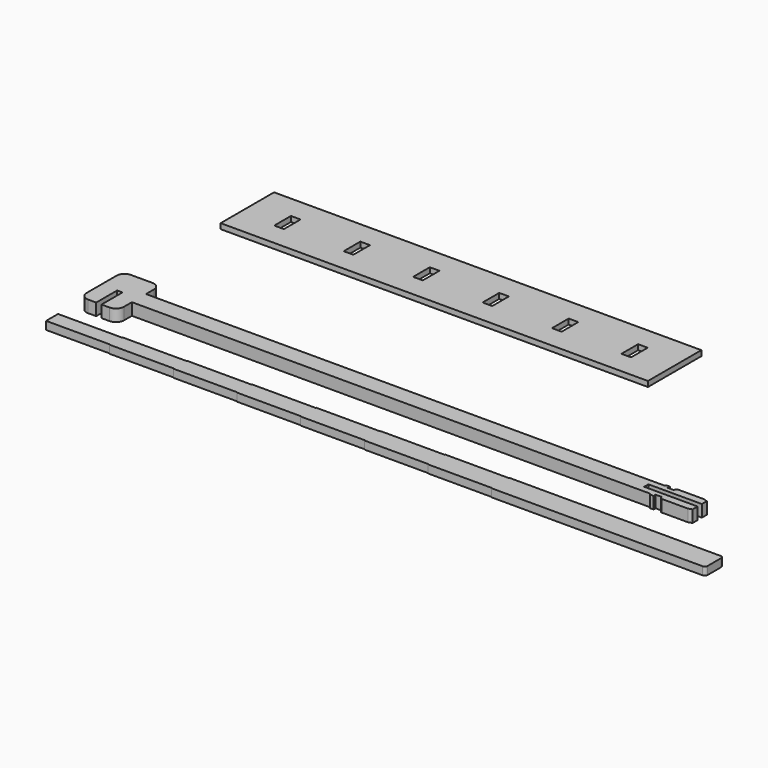
from build123d import *

# Parameters (mm, degrees)
F0_W     = 1
F0_H     = 1
F0_W_2   = 12
F0_W_3   = 8
F0_H_2   = 0.1
F1_DEPTH = 1.5
F2_DEPTH = 2.25
F3_W     = 80
F3_H     = 12.5
F3_W_2   = 1.8
F3_H_2   = 3.9
F4_DEPTH = 1


with BuildPart() as f1:
    # F0 (on Top) → F1 (new body)
    with BuildSketch(Plane.XY):
        with BuildLine():
            Line((0, 1.4), (0, 0))
            Line((0, 0), (0, -1.4))
            Line((0, -1.4), (12, -1.4))
            Line((12, -1.4), (12, -1.5))
            Line((12, -1.5), (24, -1.5))
            Line((24, -1.5), (24, -1.6))
            Line((24, -1.6), (36, -1.6))
            Line((36, -1.6), (36, -1.7))
            Line((36, -1.7), (48, -1.7))
            Line((48, -1.7), (48, -1.8))
            Line((48, -1.8), (60, -1.8))
            Line((60, -1.8), (60, -1.9))
            Line((60, -1.9), (72, -1.9))
            Line((72, -1.9), (72, -2))
            Line((72, -2), (84, -2))
            Line((84, -2), (84, -2.1))
            Line((84, -2.1), (123.5, -2.1))
            ThreePointArc((123.5, -2.1), (123.8535533906, -1.9535533906), (124, -1.6))
            Line((124, -1.6), (124, 0))
            Line((124, 0), (124, 1.6))
            ThreePointArc((124, 1.6), (123.8535533906, 1.9535533906), (123.5, 2.1))
            Line((123.5, 2.1), (84, 2.1))
            Line((84, 2.1), (84, 2))
            Line((84, 2), (72, 2))
            Line((72, 2), (72, 1.9))
            Line((72, 1.9), (60, 1.9))
            Line((60, 1.9), (60, 1.8))
            Line((60, 1.8), (48, 1.8))
            Line((48, 1.8), (48, 1.7))
            Line((48, 1.7), (36, 1.7))
            Line((36, 1.7), (36, 1.6))
            Line((36, 1.6), (24, 1.6))
            Line((24, 1.6), (24, 1.5))
            Line((24, 1.5), (12, 1.5))
            Line((12, 1.5), (12, 1.4))
            Line((12, 1.4), (0, 1.4))
        make_face()
        Polygon((61, -0.8), (49, -0.8), (49, -0.7), (17, -0.7), (17, -0.6), (16, -0.6), (16, -0.5), (4, -0.5), (4, 0.5), (16, 0.5), (16, 0.6), (17, 0.6), (17, 0.7), (49, 0.7), (49, 0.8), (61, 0.8), align=None, mode=Mode.SUBTRACT)
        Polygon((85, -1), (73, -1), (73, -0.9), (62, -0.9), (62, 0.9), (73, 0.9), (73, 1), (85, 1), align=None, mode=Mode.SUBTRACT)
        Polygon((123, -1.1), (86, -1.1), (86, 1.1), (123, 1.1), (123, 0.95), (123, 0.45), (123, -0.45), (123, -0.95), align=None, mode=Mode.SUBTRACT)
        with Locations((16.5, 0)):
            Rectangle(F0_W, F0_H)
        with Locations((10, 0)):
            Rectangle(F0_W_2, F0_H)
        with Locations((21, 0.55)):
            Rectangle(F0_W_3, F0_H_2)
        with Locations((21, -0.55)):
            Rectangle(F0_W_3, F0_H_2)
        with Locations((16.5, -0.55)):
            Rectangle(F0_W, F0_H_2)
        with Locations((16.5, 0.55)):
            Rectangle(F0_W, F0_H_2)
        Polygon((49, -0.7), (49, -0.8), (61, -0.8), (61, 0.8), (49, 0.8), (49, 0.7), (17, 0.7), (17, 0.6), (25, 0.6), (25, 0.5), (17, 0.5), (17, -0.5), (25, -0.5), (25, -0.6), (17, -0.6), (17, -0.7), align=None)
        Polygon((86, 1.1), (86, -1.1), (123, -1.1), (123, -0.95), (123, -0.45), (123, 0.45), (123, 0.95), (123, 1.1), align=None)
        Polygon((73, -0.9), (73, -1), (85, -1), (85, 1), (73, 1), (73, 0.9), (62, 0.9), (62, -0.9), align=None)
    extrude(amount=F1_DEPTH)


with BuildPart() as f1b:
    # F0 (on Top) → F1, piece 2 (new body)
    with BuildSketch(Plane.XY):
        with BuildLine():
            Line((0, 11.5820394844), (0, 8.0820394844))
            ThreePointArc((0, 8.0820394844), (0.4393398282, 7.0213793126), (1.5, 6.5820394844))
            Line((1.5, 6.5820394844), (3, 6.5820394844))
            Line((3, 6.5820394844), (3, 11.4820394844))
            Line((3, 11.4820394844), (4, 11.4820394844))
            Line((4, 11.4820394844), (4, 6.5820394844))
            Line((4, 6.5820394844), (5.5, 6.5820394844))
            ThreePointArc((5.5, 6.5820394844), (6.5606601718, 7.0213793126), (7, 8.0820394844))
            Line((7, 8.0820394844), (7, 9.9320394844))
            Line((7, 9.9320394844), (104, 9.9320394844))
            Line((104, 9.9320394844), (104.25, 9.6820394844))
            Line((104.25, 9.6820394844), (104.8692424178, 9.6820394844))
            Line((104.8692424178, 9.6820394844), (104.8692424178, 9.9280877039))
            Line((104.8692424178, 9.9280877039), (104.8692424178, 10.1780877039))
            Line((104.8692424178, 10.1780877039), (106.0692424178, 10.1780877039))
            Line((106.0692424178, 10.1780877039), (106.0692424178, 9.9280877039))
            Line((106.0692424178, 9.9280877039), (106.3152906373, 9.6820394844))
            Line((106.3152906373, 9.6820394844), (111.3131306451, 9.6820394844))
            Line((111.3131306451, 9.6820394844), (112, 9.9320394844))
            Line((112, 9.9320394844), (112, 11.0820394844))
            Line((112, 11.0820394844), (102, 11.0820394844))
            Line((102, 11.0820394844), (102, 11.5820394844))
            Line((102, 11.5820394844), (0, 11.5820394844))
        make_face()
    extrude(amount=F1_DEPTH)

    # F0 (on Top) → F2 (join)
    with BuildSketch(Plane.XY):
        with BuildLine():
            Line((0, 15.0820394844), (0, 11.5820394844))
            Line((0, 11.5820394844), (102, 11.5820394844))
            Line((102, 11.5820394844), (102, 12.0820394844))
            Line((102, 12.0820394844), (112, 12.0820394844))
            Line((112, 12.0820394844), (112, 13.2320394844))
            Line((112, 13.2320394844), (111.3131306451, 13.4820394844))
            Line((111.3131306451, 13.4820394844), (106.3152906373, 13.4820394844))
            Line((106.3152906373, 13.4820394844), (106.0692424178, 13.2359912649))
            Line((106.0692424178, 13.2359912649), (106.0692424178, 12.9859912649))
            Line((106.0692424178, 12.9859912649), (104.8692424178, 12.9859912649))
            Line((104.8692424178, 12.9859912649), (104.8692424178, 13.2359912649))
            Line((104.8692424178, 13.2359912649), (104.8692424178, 13.4820394844))
            Line((104.8692424178, 13.4820394844), (104.25, 13.4820394844))
            Line((104.25, 13.4820394844), (104, 13.2320394844))
            Line((104, 13.2320394844), (7, 13.2320394844))
            Line((7, 13.2320394844), (7, 15.0820394844))
            ThreePointArc((7, 15.0820394844), (6.5606601718, 16.1426996562), (5.5, 16.5820394844))
            Line((5.5, 16.5820394844), (1.5, 16.5820394844))
            ThreePointArc((1.5, 16.5820394844), (0.4393398282, 16.1426996562), (0, 15.0820394844))
        make_face()
        with BuildLine():
            Line((0, 11.5820394844), (0, 8.0820394844))
            ThreePointArc((0, 8.0820394844), (0.4393398282, 7.0213793126), (1.5, 6.5820394844))
            Line((1.5, 6.5820394844), (3, 6.5820394844))
            Line((3, 6.5820394844), (3, 11.4820394844))
            Line((3, 11.4820394844), (4, 11.4820394844))
            Line((4, 11.4820394844), (4, 6.5820394844))
            Line((4, 6.5820394844), (5.5, 6.5820394844))
            ThreePointArc((5.5, 6.5820394844), (6.5606601718, 7.0213793126), (7, 8.0820394844))
            Line((7, 8.0820394844), (7, 9.9320394844))
            Line((7, 9.9320394844), (104, 9.9320394844))
            Line((104, 9.9320394844), (104.25, 9.6820394844))
            Line((104.25, 9.6820394844), (104.8692424178, 9.6820394844))
            Line((104.8692424178, 9.6820394844), (104.8692424178, 9.9280877039))
            Line((104.8692424178, 9.9280877039), (104.8692424178, 10.1780877039))
            Line((104.8692424178, 10.1780877039), (106.0692424178, 10.1780877039))
            Line((106.0692424178, 10.1780877039), (106.0692424178, 9.9280877039))
            Line((106.0692424178, 9.9280877039), (106.3152906373, 9.6820394844))
            Line((106.3152906373, 9.6820394844), (111.3131306451, 9.6820394844))
            Line((111.3131306451, 9.6820394844), (112, 9.9320394844))
            Line((112, 9.9320394844), (112, 11.0820394844))
            Line((112, 11.0820394844), (102, 11.0820394844))
            Line((102, 11.0820394844), (102, 11.5820394844))
            Line((102, 11.5820394844), (0, 11.5820394844))
        make_face()
    extrude(amount=F2_DEPTH)


with BuildPart() as f4:
    # F3 (on Top) → F4 (new body)
    with BuildSketch(Plane.XY):
        with Locations((40, 45.7065304632)):
            Rectangle(F3_W, F3_H)
        with Locations((7.5, 45.7065304632)):
            Rectangle(F3_W_2, F3_H_2, mode=Mode.SUBTRACT)
        with Locations((20.5, 45.7065304632)):
            Rectangle(F3_W_2, F3_H_2, mode=Mode.SUBTRACT)
        with Locations((33.5, 45.7065304632)):
            Rectangle(F3_W_2, F3_H_2, mode=Mode.SUBTRACT)
        with Locations((46.5, 45.7065304632)):
            Rectangle(F3_W_2, F3_H_2, mode=Mode.SUBTRACT)
        with Locations((59.5, 45.7065304632)):
            Rectangle(F3_W_2, F3_H_2, mode=Mode.SUBTRACT)
        with Locations((72.5, 45.7065304632)):
            Rectangle(F3_W_2, F3_H_2, mode=Mode.SUBTRACT)
    extrude(amount=F4_DEPTH)


solid = Compound([f1.part, f1b.part, f4.part])
